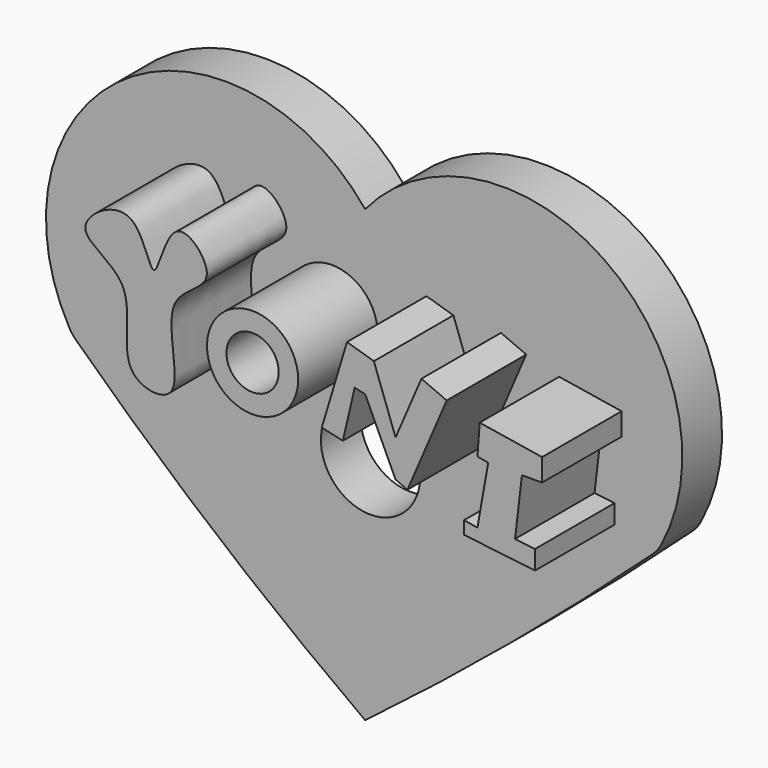
from build123d import *

# Parameters (mm, degrees)
F1_DEPTH = 6.35
F2_R     = 5.08
F3_R     = 5.08
F5_D     = 12.7
F6_R     = 5.8231286177
F6_R_2   = 3.3394661955
F7_DEPTH = 12.7


with BuildPart() as f1:
    # F0 (on Front) → F1 (new body)
    with BuildSketch(Plane.XZ):
        with BuildLine():
            ThreePointArc((8.0456975847, 18.6243019998), (1.4945659095, 49.0081533698), (-29.3174006718, 44.9193313276))
            ThreePointArc((-29.3174006718, 44.9193313276), (-60.3742821347, 49.3395191787), (-66.7494982481, 18.6243019998))
            ThreePointArc((-66.7494982481, 18.6243019998), (-48.5918146559, 2.3463574739), (-29.3174006718, -12.5925152073))
            ThreePointArc((-29.3174006718, -12.5925152073), (-10.2540941561, 2.5589717735), (8.0456975847, 18.6243019998))
        make_face()
    extrude(amount=F1_DEPTH)

    # F2
    f2_edges = [f1.edges().sort_by_distance(p)[0] for p in [
        (-66.749498, -3.175, 18.624302),
    ]]
    fillet(f2_edges, radius=F2_R)

    # F3
    f3_edges = [f1.edges().sort_by_distance(p)[0] for p in [
        (8.045698, -3.175, 18.624302),
    ]]
    fillet(f3_edges, radius=F3_R)

    # F5 (through all)
    with Locations(Plane(origin=(0, 0, 0), x_dir=(-1, 0, 0), z_dir=(0, 1, 0))):
        with Locations((28.6288391799, 17.108887434)):
            Hole(F5_D / 2)

    # F6 (on face) → F7 (join)
    with BuildSketch(Plane.XZ.offset(6.35)):
        with BuildLine():
            add(Edge.make_bspline(
                [(-54.9252331257, 39.7314652801), (-55.0163661013, 38.0235837429), (-47.3363608565, 35.9295106439), (-51.6700354497, 24.4391151564), (-41.0610004156, 22.8389372872), (-46.4536574183, 36.0998543117), (-36.7445071272, 38.2155390699), (-44.0838947613, 46.5976051665), (-46.175984172, 33.4516571647), (-48.0856221775, 45.9616518911), (-54.8376879634, 41.372109244), (-54.9252331257, 39.7314652801)],
                knots=[0, 0, 0, 0, 0.1120574701, 0.243985935, 0.3397096276, 0.4754119265, 0.583220925, 0.6812942893, 0.78788794, 0.8923541194, 1, 1, 1, 1], degree=3))
        make_face()
        with Locations((-33.5477218032, 31.4389243722)):
            Circle(F6_R)
        with Locations((-33.5477218032, 31.4389243722)):
            Circle(F6_R_2, mode=Mode.SUBTRACT)
        Polygon((-21.4812718332, 37.6808904111), (-24.7037112713, 27.0081833005), (-22.0102052808, 26.3978986374), (-20.4955004156, 32.8693985939), (-19.1512348132, 32.5547627812), (-15.2721079066, 24.2166021164), (-13.7580883076, 23.5654487713), (-8.7321358585, 35.2514679999), (-11.9667639956, 36.642624979), (-15.2721079066, 28.957253322), (-18.0425406876, 36.642624979), align=None)
        Polygon((3.4563094378, 32.8401476145), (-4.516994115, 34.124519676), (-4.8071448691, 30.2148205864), (-3.4334209394, 29.971871525), (-4.8071448691, 22.2043278911), (-6.5123867244, 22.5059073418), (-6.5123867244, 20.850347355), (2.5508658789, 19.7743587196), (2.5508658789, 22.2043278911), (0, 22.5059073418), (0.8826733683, 29.971871525), (3.4563094378, 29.971871525), align=None)
    extrude(amount=F7_DEPTH)


solid = f1.part
